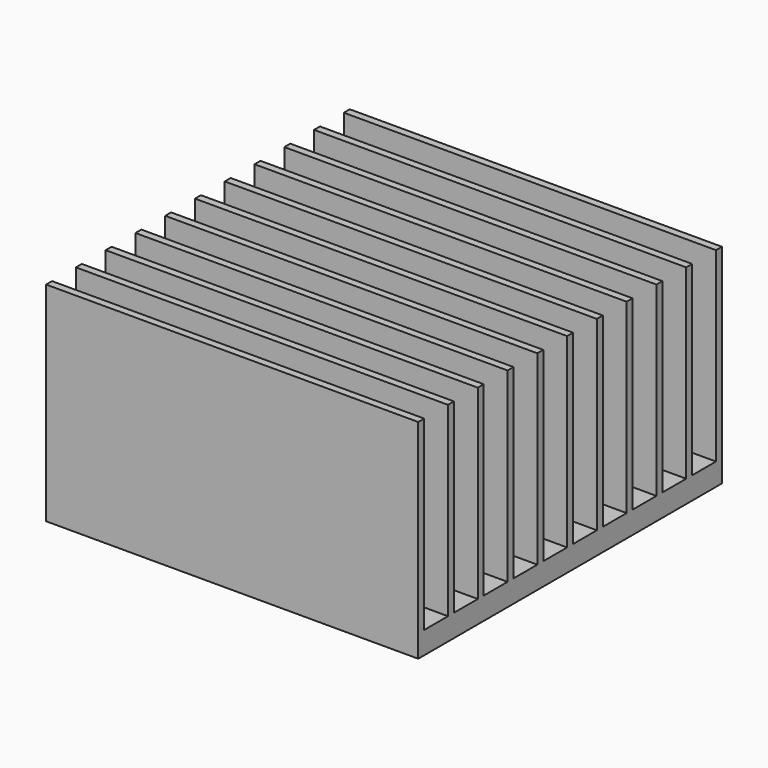
from build123d import *

# Parameters (mm, degrees)
CYLINDER_R     = 10
CYLINDER_DEPTH = 2
BOX_W          = 50
BOX_H          = 51
BOX_DEPTH      = 3
BOX001_W       = 50
BOX001_H       = 1
BOX001_DEPTH   = 25
ARRAY_Y_COUNT  = 11
ARRAY_Y_PITCH  = 5


with BuildPart() as cylinder:
    # Cylinder → Cylinder (new body)
    with BuildSketch(Plane.XY):
        Circle(CYLINDER_R)
    extrude(amount=CYLINDER_DEPTH)


with BuildPart() as cube:
    # Box → Box (new body)
    with BuildSketch(Plane(origin=(-25, -25, 0), x_dir=(1, 0, 0), z_dir=(0, 0, 1))):
        with Locations((25, 25.5)):
            Rectangle(BOX_W, BOX_H)
    extrude(amount=BOX_DEPTH)


with BuildPart() as fusion:
    # Box001 → Box001 (new body)
    with BuildSketch(Plane(origin=(-25, -25, 3), x_dir=(1, 0, 0), z_dir=(0, 0, 1))):
        with Locations((25, 0.5)):
            Rectangle(BOX001_W, BOX001_H)
    extrude(amount=BOX001_DEPTH)

    # Array Y: Fusion ×11


with BuildPart() as fusion_1:
    add(fusion.part)
    with Locations(*[(0, i * ARRAY_Y_PITCH, 0) for i in range(1, ARRAY_Y_COUNT)]):
        add(fusion.part)

    # Fusion: union Cylinder, Cube
    add(cylinder.part)
    add(cube.part)


solid = fusion_1.part
